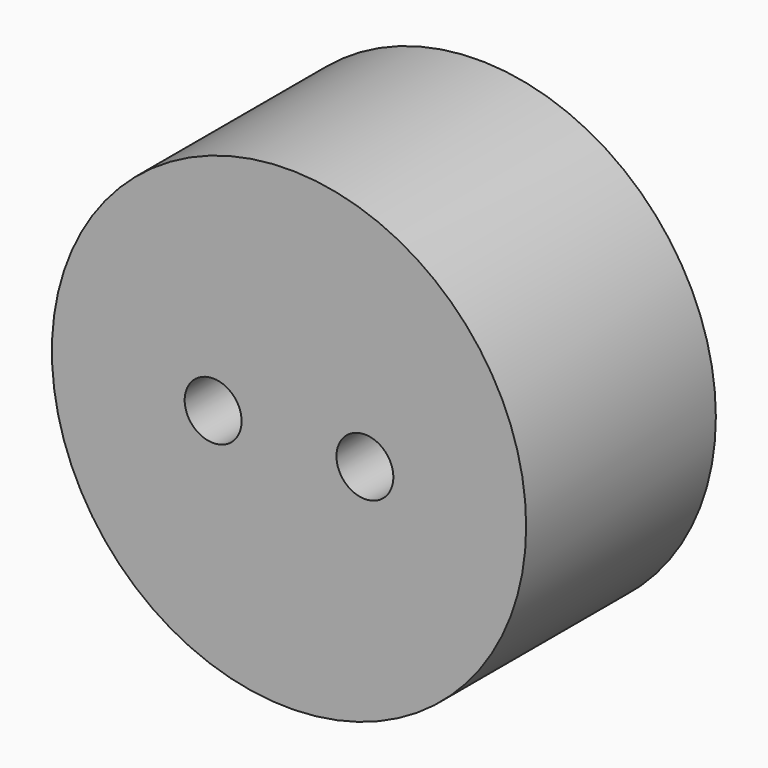
from build123d import *

# Parameters (mm, degrees)
CYLINDER014_R          = 3
CYLINDER014_DEPTH      = 15
CYLINDER014_ROLL_ANGLE = 90
CYLINDER013_R          = 3
CYLINDER013_DEPTH      = 15
CYLINDER013_ROLL_ANGLE = 90
CYLINDER012_R          = 25
CYLINDER012_DEPTH      = 25
CYLINDER012_ROLL_ANGLE = 90


with BuildPart() as cylinder014:
    # Cylinder014 → Cylinder014 (new body)
    with BuildSketch(Plane.XY):
        Circle(CYLINDER014_R)
    extrude(amount=CYLINDER014_DEPTH)


with BuildPart() as cylinder014_1:
    # Cylinder014 roll: moved
    add(cylinder014.part.rotate(Axis((0, 0, 0), (1, 0, 0)), CYLINDER014_ROLL_ANGLE))


with BuildPart() as cylinder014_2:
    # Cylinder014 placement: moved
    add(cylinder014_1.part.moved(Location((258, 9, 130))))


with BuildPart() as cylinder013:
    # Cylinder013 → Cylinder013 (new body)
    with BuildSketch(Plane.XY):
        Circle(CYLINDER013_R)
    extrude(amount=CYLINDER013_DEPTH)


with BuildPart() as cylinder013_1:
    # Cylinder013 roll: moved
    add(cylinder013.part.rotate(Axis((0, 0, 0), (1, 0, 0)), CYLINDER013_ROLL_ANGLE))


with BuildPart() as cylinder013_2:
    # Cylinder013 placement: moved
    add(cylinder013_1.part.moved(Location((242, 9, 130))))


with BuildPart() as cut007:
    # Cylinder012 → Cylinder012 (new body)
    with BuildSketch(Plane.XY):
        Circle(CYLINDER012_R)
    extrude(amount=CYLINDER012_DEPTH)


with BuildPart() as cut007_1:
    # Cylinder012 roll: moved
    add(cut007.part.rotate(Axis((0, 0, 0), (1, 0, 0)), CYLINDER012_ROLL_ANGLE))


with BuildPart() as cut007_2:
    # Cylinder012 placement: moved
    add(cut007_1.part.moved(Location((250, 20, 130))))

    # Cut006: cut Cylinder013
    add(cylinder013_2.part, mode=Mode.SUBTRACT)

    # Cut007: cut Cylinder014
    add(cylinder014_2.part, mode=Mode.SUBTRACT)


with BuildPart() as cut007_3:
    # Cut007 placement: moved
    add(cut007_2.part.moved(Location((75, 0, -55))))


solid = cut007_3.part
